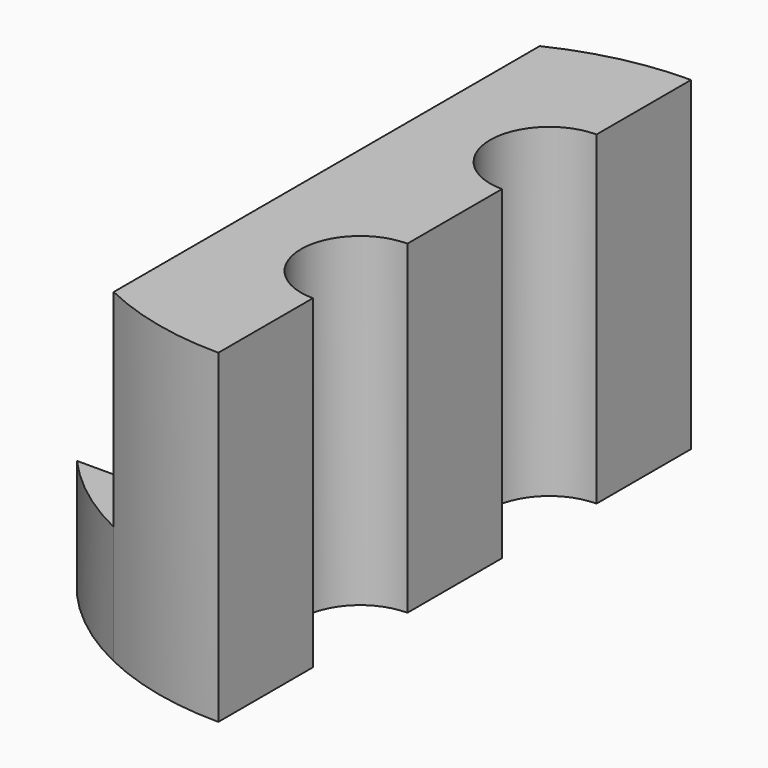
from build123d import *

# Parameters (mm, degrees)
F1_DEPTH = 33
F3_DEPTH = 12
F5_DEPTH = 33.001


with BuildPart() as f1:
    # F0 (on Top) → F1 (new body)
    with BuildSketch(Plane.XY):
        with BuildLine():
            Line((-13, 27.037012), (13, 27.037012))
            ThreePointArc((13, 27.037012), (0, 30), (-13, 27.037012))
        make_face()
        with BuildLine():
            ThreePointArc((-13, -27.037012), (0, -30), (13, -27.037012))
            Line((13, -27.037012), (-13, -27.037012))
        make_face()
        with BuildLine():
            Line((13, -12), (6, -12))
            ThreePointArc((6, -12), (0, -18), (-6, -12))
            Line((-6, -12), (-13, -12))
            Line((-13, -12), (-13, -27.037012))
            Line((-13, -27.037012), (13, -27.037012))
            Line((13, -27.037012), (13, -12))
        make_face()
        with BuildLine():
            ThreePointArc((-6, -12), (0, -6), (6, -12))
            Line((6, -12), (13, -12))
            Line((13, -12), (13, 12))
            Line((13, 12), (6, 12))
            ThreePointArc((6, 12), (0, 6), (-6, 12))
            Line((-6, 12), (-13, 12))
            Line((-13, 12), (-13, -12))
            Line((-13, -12), (-6, -12))
        make_face()
        with BuildLine():
            Line((6, 12), (13, 12))
            Line((13, 12), (13, 27.037012))
            Line((13, 27.037012), (-13, 27.037012))
            Line((-13, 27.037012), (-13, 12))
            Line((-13, 12), (-6, 12))
            ThreePointArc((-6, 12), (0, 18), (6, 12))
        make_face()
    extrude(amount=F1_DEPTH)

    # F2 (on Top) → F3 (join)
    with BuildSketch(Plane.XY):
        with BuildLine():
            Line((-12.883144, 20), (22.36068, 20))
            ThreePointArc((22.36068, 20), (0, 30), (-22.36068, 20))
            Line((-22.36068, 20), (-12.883144, 20))
        make_face()
        with BuildLine():
            ThreePointArc((-22.36068, -20), (0, -30), (22.36068, -20))
            Line((22.36068, -20), (-12.883144, -20))
            Line((-12.883144, -20), (-22.36068, -20))
        make_face()
    extrude(amount=F3_DEPTH)

    # F4 (on face) → F5 (cut, through all)
    with BuildSketch(Plane.XY.offset(33)):
        Polygon((0, 36.60208), (0, 35.889369), (0, 33.03853), (0, -37.947364), (28.590711, -37.947364), (28.590711, 36.60208), align=None)
    extrude(amount=-F5_DEPTH, mode=Mode.SUBTRACT)


solid = f1.part
